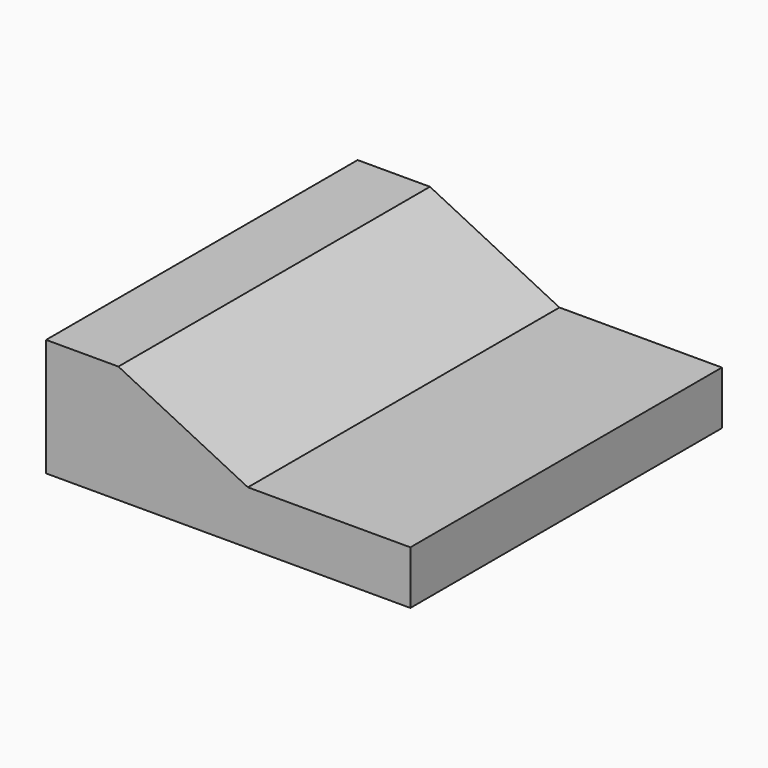
from build123d import *

# Parameters (mm, degrees)
F1_DEPTH = 106.979793


with BuildPart() as f1:
    # F0 (on Front) → F1 (new body)
    with BuildSketch(Plane.XZ):
        Polygon((-55.43993, -41.97868), (44.633046, -41.97868), (44.633046, -27.314998), (0, -27.314998), (-35.575259, -9.68311), (-55.43993, -9.68311), align=None)
    extrude(amount=-F1_DEPTH)


with BuildPart() as f1_1:
    # F2: moved
    add(f1.part.moved(Location((0, -62.309012, 0))))


solid = f1_1.part
